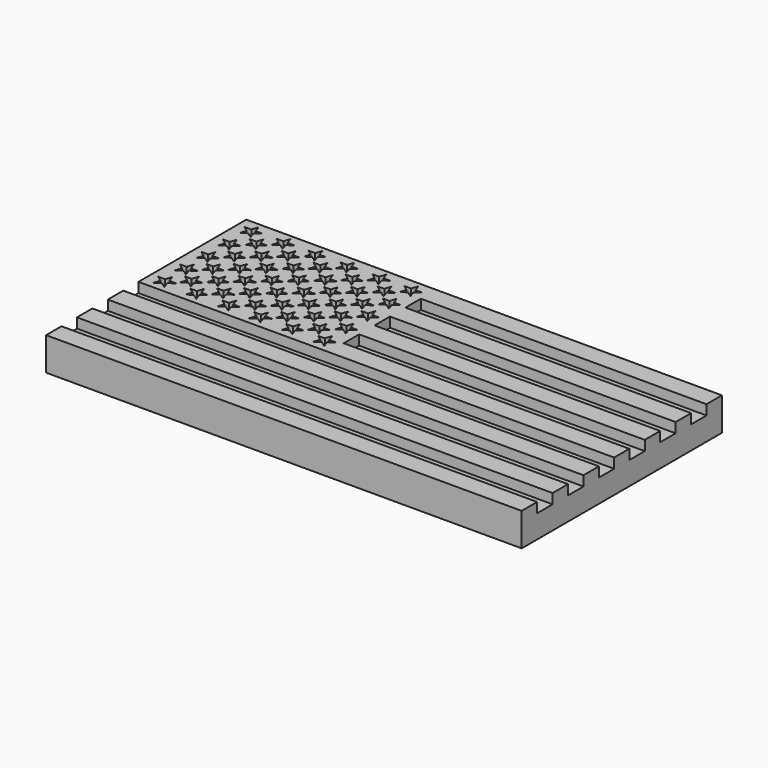
from build123d import *

# Parameters (mm, degrees)
F0_W     = 457.2
F0_H     = 240.538
F1_DEPTH = 22.225
F2_W     = 274.574
F2_H     = 18.542
F2_H_2   = 18.2626
F2_W_2   = 457.2
F3_DEPTH = 9.525


with BuildPart() as f1:
    # F0 (on Top) → F1 (new body)
    with BuildSketch(Plane.XY):
        Rectangle(F0_W, F0_H)
    extrude(amount=F1_DEPTH)

    # F2 (on face) → F3 (join)
    with BuildSketch(Plane.XY.offset(22.225)):
        Polygon((-213.614, 120.269), (-228.6, 120.269), (-228.6, 107.315), (-228.6, 94.361), (-228.6, -9.2456), (-45.974, -9.2456), (-45.974, 9.017), (-45.974, 27.559), (-45.974, 46.101), (-45.974, 64.643), (-45.974, 83.185), (-45.974, 101.727), (-45.974, 120.269), (-198.374, 120.269), align=None)
        Polygon((-213.614, 0.205247), (-218.965712, -3.683), (-216.92154, 2.608315), (-222.273252, 6.496562), (-215.658172, 6.496562), (-213.614, 12.787877), (-211.569828, 6.496562), (-204.954748, 6.496562), (-210.30646, 2.608315), (-208.262288, -3.683), align=None, mode=Mode.SUBTRACT)
        Polygon((-182.88, 0.205247), (-188.231712, -3.683), (-186.18754, 2.608315), (-191.539252, 6.496562), (-184.924172, 6.496562), (-182.88, 12.787877), (-180.835828, 6.496562), (-174.220748, 6.496562), (-179.57246, 2.608315), (-177.528288, -3.683), align=None, mode=Mode.SUBTRACT)
        Polygon((-193.022288, 9.271), (-198.374, 13.159247), (-203.725712, 9.271), (-201.68154, 15.562315), (-207.033252, 19.450562), (-200.418172, 19.450562), (-198.374, 25.741877), (-196.329828, 19.450562), (-189.714748, 19.450562), (-195.06646, 15.562315), align=None, mode=Mode.SUBTRACT)
        Polygon((-152.146, 0.205247), (-157.497712, -3.683), (-155.45354, 2.608315), (-160.805252, 6.496562), (-154.190172, 6.496562), (-152.146, 12.787877), (-150.101828, 6.496562), (-143.486748, 6.496562), (-148.83846, 2.608315), (-146.794288, -3.683), align=None, mode=Mode.SUBTRACT)
        Polygon((-121.412, 0.205247), (-126.763712, -3.683), (-124.71954, 2.608315), (-130.071252, 6.496562), (-123.456172, 6.496562), (-121.412, 12.787877), (-119.367828, 6.496562), (-112.752748, 6.496562), (-118.10446, 2.608315), (-116.060288, -3.683), align=None, mode=Mode.SUBTRACT)
        Polygon((-162.288288, 9.271), (-167.64, 13.159247), (-172.991712, 9.271), (-170.94754, 15.562315), (-176.299252, 19.450562), (-169.684172, 19.450562), (-167.64, 25.741877), (-165.595828, 19.450562), (-158.980748, 19.450562), (-164.33246, 15.562315), align=None, mode=Mode.SUBTRACT)
        Polygon((-131.554288, 9.271), (-136.906, 13.159247), (-142.257712, 9.271), (-140.21354, 15.562315), (-145.565252, 19.450562), (-138.950172, 19.450562), (-136.906, 25.741877), (-134.861828, 19.450562), (-128.246748, 19.450562), (-133.59846, 15.562315), align=None, mode=Mode.SUBTRACT)
        Polygon((-213.614, 26.113247), (-218.965712, 22.225), (-216.92154, 28.516315), (-222.273252, 32.404562), (-215.658172, 32.404562), (-213.614, 38.695877), (-211.569828, 32.404562), (-204.954748, 32.404562), (-210.30646, 28.516315), (-208.262288, 22.225), align=None, mode=Mode.SUBTRACT)
        Polygon((-182.88, 26.113247), (-188.231712, 22.225), (-186.18754, 28.516315), (-191.539252, 32.404562), (-184.924172, 32.404562), (-182.88, 38.695877), (-180.835828, 32.404562), (-174.220748, 32.404562), (-179.57246, 28.516315), (-177.528288, 22.225), align=None, mode=Mode.SUBTRACT)
        Polygon((-193.022288, 35.179), (-198.374, 39.067247), (-203.725712, 35.179), (-201.68154, 41.470315), (-207.033252, 45.358562), (-200.418172, 45.358562), (-198.374, 51.649877), (-196.329828, 45.358562), (-189.714748, 45.358562), (-195.06646, 41.470315), align=None, mode=Mode.SUBTRACT)
        Polygon((-213.614, 52.021247), (-218.965712, 48.133), (-216.92154, 54.424315), (-222.273252, 58.312562), (-215.658172, 58.312562), (-213.614, 64.603877), (-211.569828, 58.312562), (-204.954748, 58.312562), (-210.30646, 54.424315), (-208.262288, 48.133), align=None, mode=Mode.SUBTRACT)
        Polygon((-182.88, 52.021247), (-188.231712, 48.133), (-186.18754, 54.424315), (-191.539252, 58.312562), (-184.924172, 58.312562), (-182.88, 64.603877), (-180.835828, 58.312562), (-174.220748, 58.312562), (-179.57246, 54.424315), (-177.528288, 48.133), align=None, mode=Mode.SUBTRACT)
        Polygon((-152.146, 26.113247), (-157.497712, 22.225), (-155.45354, 28.516315), (-160.805252, 32.404562), (-154.190172, 32.404562), (-152.146, 38.695877), (-150.101828, 32.404562), (-143.486748, 32.404562), (-148.83846, 28.516315), (-146.794288, 22.225), align=None, mode=Mode.SUBTRACT)
        Polygon((-162.288288, 35.179), (-167.64, 39.067247), (-172.991712, 35.179), (-170.94754, 41.470315), (-176.299252, 45.358562), (-169.684172, 45.358562), (-167.64, 51.649877), (-165.595828, 45.358562), (-158.980748, 45.358562), (-164.33246, 41.470315), align=None, mode=Mode.SUBTRACT)
        Polygon((-121.412, 26.113247), (-126.763712, 22.225), (-124.71954, 28.516315), (-130.071252, 32.404562), (-123.456172, 32.404562), (-121.412, 38.695877), (-119.367828, 32.404562), (-112.752748, 32.404562), (-118.10446, 28.516315), (-116.060288, 22.225), align=None, mode=Mode.SUBTRACT)
        Polygon((-131.554288, 35.179), (-136.906, 39.067247), (-142.257712, 35.179), (-140.21354, 41.470315), (-145.565252, 45.358562), (-138.950172, 45.358562), (-136.906, 51.649877), (-134.861828, 45.358562), (-128.246748, 45.358562), (-133.59846, 41.470315), align=None, mode=Mode.SUBTRACT)
        Polygon((-152.146, 52.021247), (-157.497712, 48.133), (-155.45354, 54.424315), (-160.805252, 58.312562), (-154.190172, 58.312562), (-152.146, 64.603877), (-150.101828, 58.312562), (-143.486748, 58.312562), (-148.83846, 54.424315), (-146.794288, 48.133), align=None, mode=Mode.SUBTRACT)
        Polygon((-121.412, 52.021247), (-126.763712, 48.133), (-124.71954, 54.424315), (-130.071252, 58.312562), (-123.456172, 58.312562), (-121.412, 64.603877), (-119.367828, 58.312562), (-112.752748, 58.312562), (-118.10446, 54.424315), (-116.060288, 48.133), align=None, mode=Mode.SUBTRACT)
        Polygon((-90.678, 0.205247), (-96.029712, -3.683), (-93.98554, 2.608315), (-99.337252, 6.496562), (-92.722172, 6.496562), (-90.678, 12.787877), (-88.633828, 6.496562), (-82.018748, 6.496562), (-87.37046, 2.608315), (-85.326288, -3.683), align=None, mode=Mode.SUBTRACT)
        Polygon((-59.944, 0.205247), (-65.295712, -3.683), (-63.25154, 2.608315), (-68.603252, 6.496562), (-61.988172, 6.496562), (-59.944, 12.787877), (-57.899828, 6.496562), (-51.284748, 6.496562), (-56.63646, 2.608315), (-54.592288, -3.683), align=None, mode=Mode.SUBTRACT)
        Polygon((-100.820288, 9.271), (-106.172, 13.159247), (-111.523712, 9.271), (-109.47954, 15.562315), (-114.831252, 19.450562), (-108.216172, 19.450562), (-106.172, 25.741877), (-104.127828, 19.450562), (-97.512748, 19.450562), (-102.86446, 15.562315), align=None, mode=Mode.SUBTRACT)
        Polygon((-70.086288, 9.271), (-75.438, 13.159247), (-80.789712, 9.271), (-78.74554, 15.562315), (-84.097252, 19.450562), (-77.482172, 19.450562), (-75.438, 25.741877), (-73.393828, 19.450562), (-66.778748, 19.450562), (-72.13046, 15.562315), align=None, mode=Mode.SUBTRACT)
        Polygon((-90.678, 26.113247), (-96.029712, 22.225), (-93.98554, 28.516315), (-99.337252, 32.404562), (-92.722172, 32.404562), (-90.678, 38.695877), (-88.633828, 32.404562), (-82.018748, 32.404562), (-87.37046, 28.516315), (-85.326288, 22.225), align=None, mode=Mode.SUBTRACT)
        Polygon((-100.820288, 35.179), (-106.172, 39.067247), (-111.523712, 35.179), (-109.47954, 41.470315), (-114.831252, 45.358562), (-108.216172, 45.358562), (-106.172, 51.649877), (-104.127828, 45.358562), (-97.512748, 45.358562), (-102.86446, 41.470315), align=None, mode=Mode.SUBTRACT)
        Polygon((-59.944, 26.113247), (-65.295712, 22.225), (-63.25154, 28.516315), (-68.603252, 32.404562), (-61.988172, 32.404562), (-59.944, 38.695877), (-57.899828, 32.404562), (-51.284748, 32.404562), (-56.63646, 28.516315), (-54.592288, 22.225), align=None, mode=Mode.SUBTRACT)
        Polygon((-70.086288, 35.179), (-75.438, 39.067247), (-80.789712, 35.179), (-78.74554, 41.470315), (-84.097252, 45.358562), (-77.482172, 45.358562), (-75.438, 51.649877), (-73.393828, 45.358562), (-66.778748, 45.358562), (-72.13046, 41.470315), align=None, mode=Mode.SUBTRACT)
        Polygon((-90.678, 52.021247), (-96.029712, 48.133), (-93.98554, 54.424315), (-99.337252, 58.312562), (-92.722172, 58.312562), (-90.678, 64.603877), (-88.633828, 58.312562), (-82.018748, 58.312562), (-87.37046, 54.424315), (-85.326288, 48.133), align=None, mode=Mode.SUBTRACT)
        Polygon((-59.944, 52.021247), (-65.295712, 48.133), (-63.25154, 54.424315), (-68.603252, 58.312562), (-61.988172, 58.312562), (-59.944, 64.603877), (-57.899828, 58.312562), (-51.284748, 58.312562), (-56.63646, 54.424315), (-54.592288, 48.133), align=None, mode=Mode.SUBTRACT)
        Polygon((-193.022288, 61.087), (-198.374, 64.975247), (-203.725712, 61.087), (-201.68154, 67.378315), (-207.033252, 71.266562), (-200.418172, 71.266562), (-198.374, 77.557877), (-196.329828, 71.266562), (-189.714748, 71.266562), (-195.06646, 67.378315), align=None, mode=Mode.SUBTRACT)
        Polygon((-213.614, 77.929247), (-218.965712, 74.041), (-216.92154, 80.332315), (-222.273252, 84.220562), (-215.658172, 84.220562), (-213.614, 90.511877), (-211.569828, 84.220562), (-204.954748, 84.220562), (-210.30646, 80.332315), (-208.262288, 74.041), align=None, mode=Mode.SUBTRACT)
        Polygon((-182.88, 77.929247), (-188.231712, 74.041), (-186.18754, 80.332315), (-191.539252, 84.220562), (-184.924172, 84.220562), (-182.88, 90.511877), (-180.835828, 84.220562), (-174.220748, 84.220562), (-179.57246, 80.332315), (-177.528288, 74.041), align=None, mode=Mode.SUBTRACT)
        Polygon((-162.288288, 61.087), (-167.64, 64.975247), (-172.991712, 61.087), (-170.94754, 67.378315), (-176.299252, 71.266562), (-169.684172, 71.266562), (-167.64, 77.557877), (-165.595828, 71.266562), (-158.980748, 71.266562), (-164.33246, 67.378315), align=None, mode=Mode.SUBTRACT)
        Polygon((-131.554288, 61.087), (-136.906, 64.975247), (-142.257712, 61.087), (-140.21354, 67.378315), (-145.565252, 71.266562), (-138.950172, 71.266562), (-136.906, 77.557877), (-134.861828, 71.266562), (-128.246748, 71.266562), (-133.59846, 67.378315), align=None, mode=Mode.SUBTRACT)
        Polygon((-152.146, 77.929247), (-157.497712, 74.041), (-155.45354, 80.332315), (-160.805252, 84.220562), (-154.190172, 84.220562), (-152.146, 90.511877), (-150.101828, 84.220562), (-143.486748, 84.220562), (-148.83846, 80.332315), (-146.794288, 74.041), align=None, mode=Mode.SUBTRACT)
        Polygon((-121.412, 77.929247), (-126.763712, 74.041), (-124.71954, 80.332315), (-130.071252, 84.220562), (-123.456172, 84.220562), (-121.412, 90.511877), (-119.367828, 84.220562), (-112.752748, 84.220562), (-118.10446, 80.332315), (-116.060288, 74.041), align=None, mode=Mode.SUBTRACT)
        Polygon((-200.418172, 97.174562), (-198.374, 103.465877), (-196.329828, 97.174562), (-189.714748, 97.174562), (-195.06646, 93.286315), (-193.022288, 86.995), (-198.374, 90.883247), (-203.725712, 86.995), (-201.68154, 93.286315), (-207.033252, 97.174562), align=None, mode=Mode.SUBTRACT)
        Polygon((-216.92154, 106.240315), (-222.273252, 110.128562), (-215.658172, 110.128562), (-213.614, 116.419877), (-211.569828, 110.128562), (-204.954748, 110.128562), (-210.30646, 106.240315), (-208.262288, 99.949), (-213.614, 103.837247), (-218.965712, 99.949), align=None, mode=Mode.SUBTRACT)
        Polygon((-182.88, 103.837247), (-188.231712, 99.949), (-186.18754, 106.240315), (-191.539252, 110.128562), (-184.924172, 110.128562), (-182.88, 116.419877), (-180.835828, 110.128562), (-174.220748, 110.128562), (-179.57246, 106.240315), (-177.528288, 99.949), align=None, mode=Mode.SUBTRACT)
        Polygon((-162.288288, 86.995), (-167.64, 90.883247), (-172.991712, 86.995), (-170.94754, 93.286315), (-176.299252, 97.174562), (-169.684172, 97.174562), (-167.64, 103.465877), (-165.595828, 97.174562), (-158.980748, 97.174562), (-164.33246, 93.286315), align=None, mode=Mode.SUBTRACT)
        Polygon((-131.554288, 86.995), (-136.906, 90.883247), (-142.257712, 86.995), (-140.21354, 93.286315), (-145.565252, 97.174562), (-138.950172, 97.174562), (-136.906, 103.465877), (-134.861828, 97.174562), (-128.246748, 97.174562), (-133.59846, 93.286315), align=None, mode=Mode.SUBTRACT)
        Polygon((-152.146, 103.837247), (-157.497712, 99.949), (-155.45354, 106.240315), (-160.805252, 110.128562), (-154.190172, 110.128562), (-152.146, 116.419877), (-150.101828, 110.128562), (-143.486748, 110.128562), (-148.83846, 106.240315), (-146.794288, 99.949), align=None, mode=Mode.SUBTRACT)
        Polygon((-121.412, 103.837247), (-126.763712, 99.949), (-124.71954, 106.240315), (-130.071252, 110.128562), (-123.456172, 110.128562), (-121.412, 116.419877), (-119.367828, 110.128562), (-112.752748, 110.128562), (-118.10446, 106.240315), (-116.060288, 99.949), align=None, mode=Mode.SUBTRACT)
        Polygon((-100.820288, 61.087), (-106.172, 64.975247), (-111.523712, 61.087), (-109.47954, 67.378315), (-114.831252, 71.266562), (-108.216172, 71.266562), (-106.172, 77.557877), (-104.127828, 71.266562), (-97.512748, 71.266562), (-102.86446, 67.378315), align=None, mode=Mode.SUBTRACT)
        Polygon((-70.086288, 61.087), (-75.438, 64.975247), (-80.789712, 61.087), (-78.74554, 67.378315), (-84.097252, 71.266562), (-77.482172, 71.266562), (-75.438, 77.557877), (-73.393828, 71.266562), (-66.778748, 71.266562), (-72.13046, 67.378315), align=None, mode=Mode.SUBTRACT)
        Polygon((-90.678, 77.929247), (-96.029712, 74.041), (-93.98554, 80.332315), (-99.337252, 84.220562), (-92.722172, 84.220562), (-90.678, 90.511877), (-88.633828, 84.220562), (-82.018748, 84.220562), (-87.37046, 80.332315), (-85.326288, 74.041), align=None, mode=Mode.SUBTRACT)
        Polygon((-59.944, 77.929247), (-65.295712, 74.041), (-63.25154, 80.332315), (-68.603252, 84.220562), (-61.988172, 84.220562), (-59.944, 90.511877), (-57.899828, 84.220562), (-51.284748, 84.220562), (-56.63646, 80.332315), (-54.592288, 74.041), align=None, mode=Mode.SUBTRACT)
        Polygon((-100.820288, 86.995), (-106.172, 90.883247), (-111.523712, 86.995), (-109.47954, 93.286315), (-114.831252, 97.174562), (-108.216172, 97.174562), (-106.172, 103.465877), (-104.127828, 97.174562), (-97.512748, 97.174562), (-102.86446, 93.286315), align=None, mode=Mode.SUBTRACT)
        Polygon((-70.086288, 86.995), (-75.438, 90.883247), (-80.789712, 86.995), (-78.74554, 93.286315), (-84.097252, 97.174562), (-77.482172, 97.174562), (-75.438, 103.465877), (-73.393828, 97.174562), (-66.778748, 97.174562), (-72.13046, 93.286315), align=None, mode=Mode.SUBTRACT)
        Polygon((-90.678, 103.837247), (-96.029712, 99.949), (-93.98554, 106.240315), (-99.337252, 110.128562), (-92.722172, 110.128562), (-90.678, 116.419877), (-88.633828, 110.128562), (-82.018748, 110.128562), (-87.37046, 106.240315), (-85.326288, 99.949), align=None, mode=Mode.SUBTRACT)
        Polygon((-59.944, 103.837247), (-65.295712, 99.949), (-63.25154, 106.240315), (-68.603252, 110.128562), (-61.988172, 110.128562), (-59.944, 116.419877), (-57.899828, 110.128562), (-51.284748, 110.128562), (-56.63646, 106.240315), (-54.592288, 99.949), align=None, mode=Mode.SUBTRACT)
        with Locations((91.313, 110.998)):
            Rectangle(F2_W, F2_H)
        with Locations((91.313, 73.914)):
            Rectangle(F2_W, F2_H)
        with Locations((91.313, 36.83)):
            Rectangle(F2_W, F2_H)
        with Locations((91.313, -0.1143)):
            Rectangle(F2_W, F2_H_2)
        with Locations((0, -36.83)):
            Rectangle(F2_W_2, F2_H)
        with Locations((0, -73.914)):
            Rectangle(F2_W_2, F2_H)
        with Locations((0, -110.998)):
            Rectangle(F2_W_2, F2_H)
    extrude(amount=F3_DEPTH)


solid = f1.part
